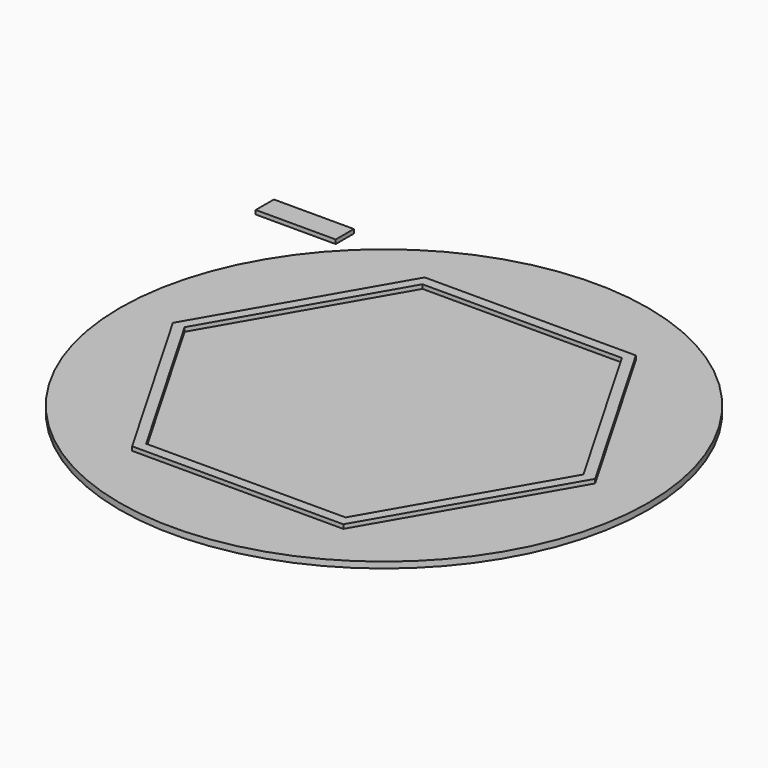
from build123d import *

# Parameters (mm, degrees)
F0_R     = 165.1
F2_DEPTH = 3.81
F1_W     = 50
F1_H     = 14.2
F3_DEPTH = 2.54
F5_DEPTH = 2.54


with BuildPart() as f2:
    # F0 (on Top) → F2 (new body)
    with BuildSketch(Plane.XY):
        Circle(F0_R)
        Polygon((-65.9911357684, -114.3), (-131.9822715367, 0), (-65.9911357684, 114.3), (65.9911357684, 114.3), (131.9822715367, 0), (65.9911357684, -114.3), align=None, mode=Mode.SUBTRACT)
        Polygon((-65.9911357684, 114.3), (-131.9822715367, 0), (-65.9911357684, -114.3), (65.9911357684, -114.3), (131.9822715367, 0), (65.9911357684, 114.3), align=None)
        Polygon((-62.324961559, -107.95), (-124.649923118, 0), (-62.324961559, 107.95), (62.324961559, 107.95), (124.649923118, 0), (62.324961559, -107.95), align=None, mode=Mode.SUBTRACT)
        Polygon((-62.324961559, 107.95), (-124.649923118, 0), (-62.324961559, -107.95), (62.324961559, -107.95), (124.649923118, 0), (62.324961559, 107.95), align=None)
    extrude(amount=F2_DEPTH)

    # F4 (on face) → F5 (join)
    with BuildSketch(Plane.XY.offset(3.81)):
        Polygon((-65.9911357684, 114.3), (-131.9822715367, 0), (-65.9911357684, -114.3), (65.9911357684, -114.3), (131.9822715367, 0), (65.9911357684, 114.3), align=None)
        Polygon((-62.324961559, -107.95), (-124.649923118, 0), (-62.324961559, 107.95), (62.324961559, 107.95), (124.649923118, 0), (62.324961559, -107.95), align=None, mode=Mode.SUBTRACT)
    extrude(amount=F5_DEPTH)


with BuildPart() as f3:
    # F1 (on face) → F3 (new body)
    with BuildSketch(Plane.XY):
        with Locations((-154.5298546553, 131.2848925591)):
            Rectangle(F1_W, F1_H)
    extrude(amount=F3_DEPTH)


solid = Compound([f2.part, f3.part])
